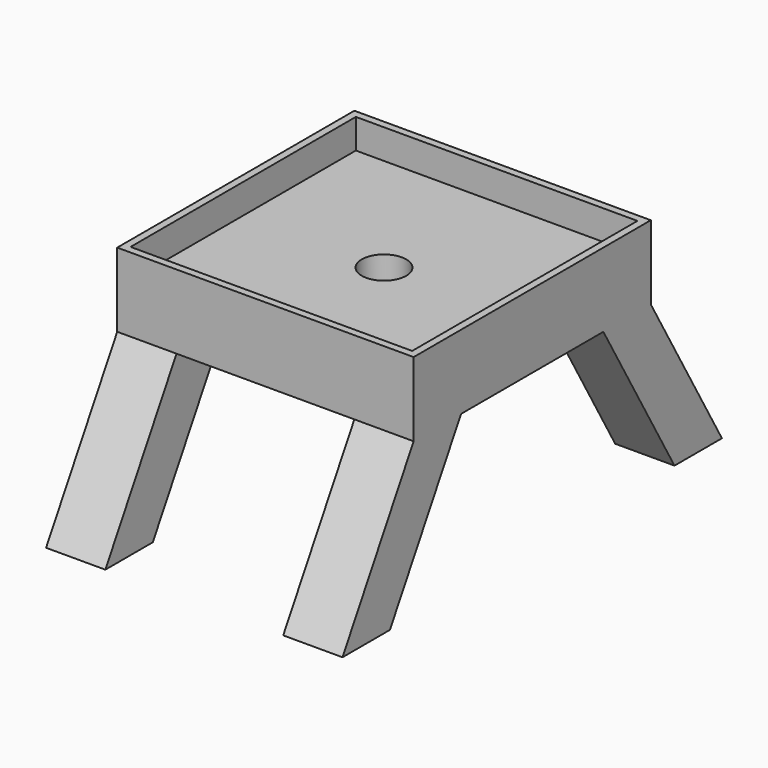
from build123d import *

# Parameters (mm, degrees)
F0_W     = 254
F0_H     = 254
F0_R     = 12.7
F1_DEPTH = 38.1
F2_W     = 254
F2_H     = 254
F2_W_2   = 241.3
F2_H_2   = 241.3
F3_DEPTH = 25.4
F4_R     = 19.05
F5_DEPTH = 37.846
F7_DEPTH = 50.8
F9_DEPTH = 50.8


with BuildPart() as f1:
    # F0 (on Top) → F1 (new body)
    with BuildSketch(Plane.XY):
        Rectangle(F0_W, F0_H)
        Circle(F0_R, mode=Mode.SUBTRACT)
    extrude(amount=-F1_DEPTH)

    # F2 (on face) → F3 (join)
    with BuildSketch(Plane.XY):
        Rectangle(F2_W, F2_H)
        Rectangle(F2_W_2, F2_H_2, mode=Mode.SUBTRACT)
    extrude(amount=F3_DEPTH)

    # F4 (on face) → F5 (cut)
    with BuildSketch(Plane.XY):
        Circle(F4_R)
    extrude(amount=-F5_DEPTH, mode=Mode.SUBTRACT)

    # F6 (on face) → F7 (join)
    with BuildSketch(Plane.YZ.offset(127)):
        Polygon((203.2, -170.082272), (127, -38.1), (76.2, -38.1), (152.4, -170.082272), align=None)
        Polygon((-76.2, -38.1), (-127, -38.1), (-203.2, -170.082272), (-152.4, -170.082272), align=None)
    extrude(amount=-F7_DEPTH)

    # F8 (on face) → F9 (join)
    with BuildSketch(Plane(origin=(-127, 0, 0), x_dir=(0, -1, 0), z_dir=(-1, 0, 0))):
        Polygon((-76.2, -38.1), (-127, -38.1), (-203.2, -170.082272), (-152.4, -170.082272), align=None)
        Polygon((203.2, -170.082272), (127, -38.1), (76.2, -38.1), (152.4, -170.082272), align=None)
    extrude(amount=-F9_DEPTH)


solid = f1.part
